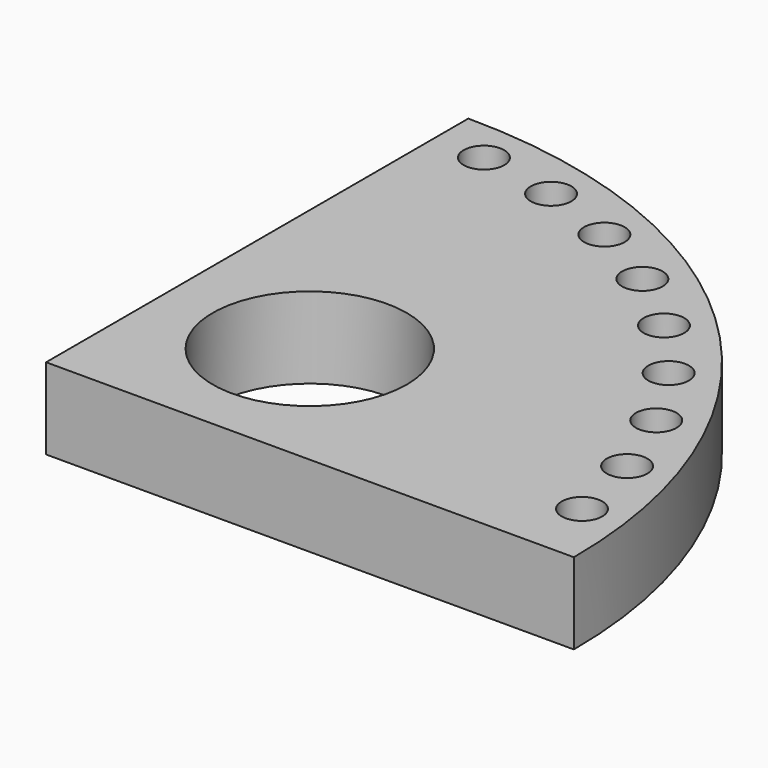
from build123d import *

# Parameters (mm, degrees)
F0_R     = 30.353
F0_R_2   = 6.35
F1_DEPTH = 25.4


with BuildPart() as f1:
    # F0 (on Top) → F1 (new body)
    with BuildSketch(Plane.XY):
        with BuildLine():
            Line((-152.4, 0), (12.7, 0))
            ThreePointArc((12.7, 0), (-35.65667, 116.74333), (-152.4, 165.1))
            Line((-152.4, 165.1), (-152.4, 0))
        make_face()
        with Locations((-106.5784, 45.8216)):
            Circle(F0_R, mode=Mode.SUBTRACT)
        with Locations((-1.712509, 21.187898)):
            Circle(F0_R_2, mode=Mode.SUBTRACT)
        with Locations((-7.27611, 45.767928)):
            Circle(F0_R_2, mode=Mode.SUBTRACT)
        with Locations((-16.820283, 69.092599)):
            Circle(F0_R_2, mode=Mode.SUBTRACT)
        with Locations((-136.503923, 151.337245)):
            Circle(F0_R_2, mode=Mode.SUBTRACT)
        with Locations((-111.744079, 146.638136)):
            Circle(F0_R_2, mode=Mode.SUBTRACT)
        with Locations((-88.099377, 137.91692)):
            Circle(F0_R_2, mode=Mode.SUBTRACT)
        with Locations((-30.083246, 90.522144)):
            Circle(F0_R_2, mode=Mode.SUBTRACT)
        with Locations((-46.70121, 109.468774)):
            Circle(F0_R_2, mode=Mode.SUBTRACT)
        with Locations((-66.218364, 125.412808)):
            Circle(F0_R_2, mode=Mode.SUBTRACT)
    extrude(amount=F1_DEPTH)


solid = f1.part
